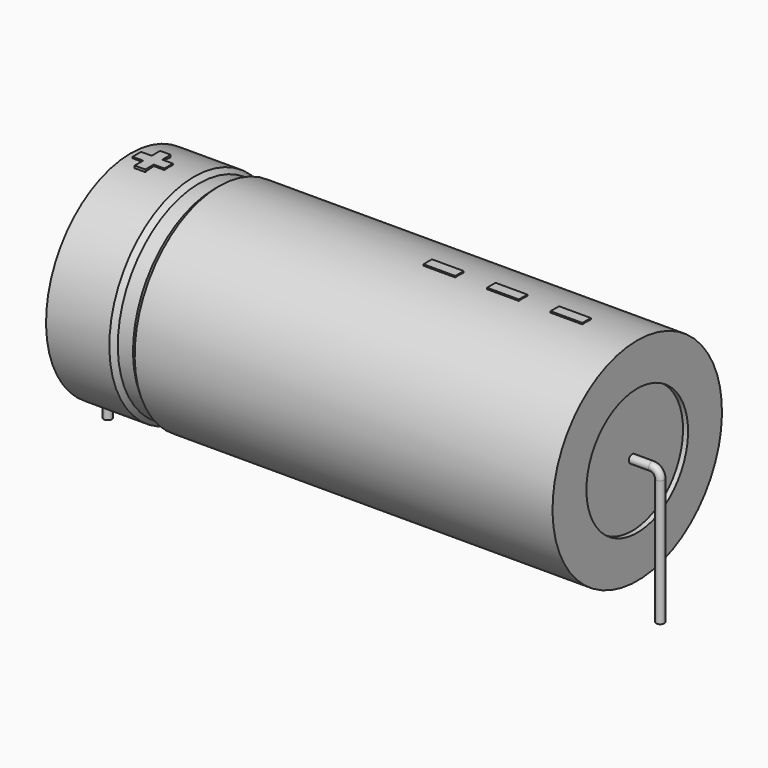
from build123d import *

# Parameters (mm, degrees)
SKETCH_R    = 0.45
SKETCH004_W = 3.45
SKETCH004_H = 1.15
PAD_DEPTH   = 11.615


with BuildPart() as sweep_body:
    # Sweep: sweep along a path in Sketch001
    with BuildLine(Plane.XZ) as sweep_path:
        Line((0, -3), (0, 10.7))
        ThreePointArc((0, 10.7), (0.263601, 11.336393), (0.899993, 11.6))
        Line((0.899993, 11.6), (59.1, 11.6))
        ThreePointArc((59.1, 11.6), (59.736396, 11.336396), (60, 10.7))
        Line((60, 10.7), (60, -3))
    # Sketch → Sweep (sweep)
    with BuildSketch(Plane.XY.offset(-2)):
        Circle(SKETCH_R)
    sweep(path=sweep_path.line)


with BuildPart() as revolution:
    # Sketch002 → Revolution (revolve)
    with BuildSketch(Plane.XZ):
        Polygon((2.5, 23.1), (2.5, 18.5), (57.5, 18.5), (57.5, 23.1), (12.125, 23.1), (11.575, 22.64), (9.925, 22.64), (9.375, 23.1), align=None)
    revolve(axis=Axis((6.97588, 0, 11.6), (1, 0, 0)))


with BuildPart() as revolution001:
    # Sketch003 → Revolution001 (revolve)
    with BuildSketch(Plane.XZ):
        Polygon((3.05, 22.64), (5.8, 22.64), (5.8, 12.75), (54.2, 12.75), (54.2, 22.64), (56.95, 22.64), (56.95, 11.6), (3.05, 11.6), align=None)
    revolve(axis=Axis((6.97588, 0, 11.6), (1, 0, 0)))


with BuildPart() as pad:
    # Sketch004 → Pad (new body)
    with BuildSketch(Plane.XY.offset(11.6)):
        with Locations((50.275, 0)):
            Rectangle(SKETCH004_W, SKETCH004_H)
        with Locations((43.375, 0)):
            Rectangle(SKETCH004_W, SKETCH004_H)
        with Locations((36.475, 0)):
            Rectangle(SKETCH004_W, SKETCH004_H)
        Polygon((4.31, 0.575), (3.16, 0.575), (3.16, -0.575), (4.31, -0.575), (4.31, -1.725), (5.46, -1.725), (5.46, -0.575), (6.61, -0.575), (6.61, 0.575), (5.46, 0.575), (5.46, 1.725), (4.31, 1.725), align=None)
    extrude(amount=PAD_DEPTH)


solid = Compound([sweep_body.part, revolution.part, revolution001.part, pad.part])
